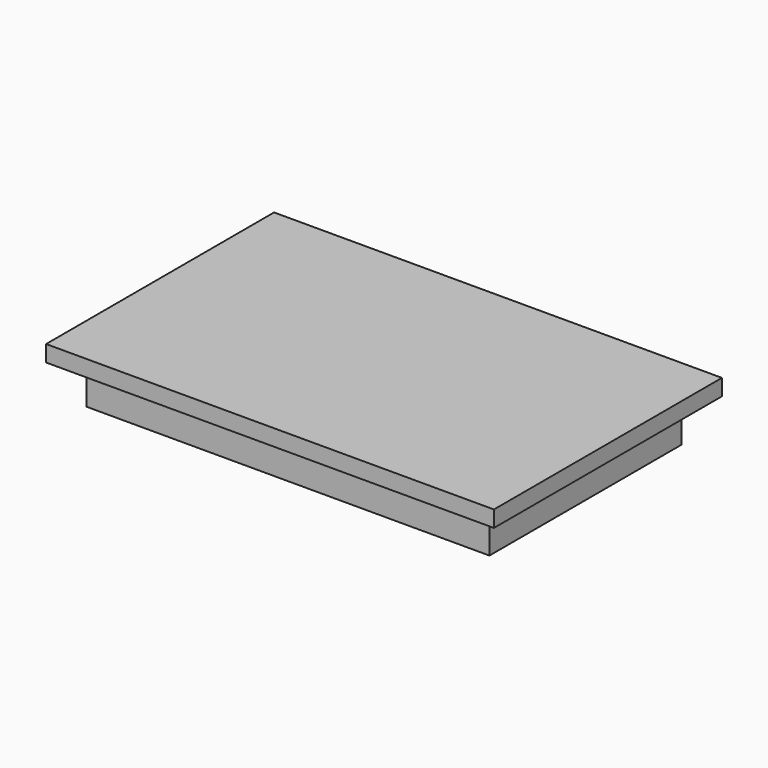
from build123d import *

# Parameters (mm, degrees)
F0_W     = 110
F0_H     = 70
F1_DEPTH = 4
F2_W     = 99
F2_H     = 59
F2_W_2   = 91
F2_H_2   = 51
F3_DEPTH = 10


with BuildPart() as f1:
    # F0 (on Top) → F1 (new body)
    with BuildSketch(Plane.XY):
        with Locations((-12.319225, -35)):
            Rectangle(F0_W, F0_H)
    extrude(amount=F1_DEPTH)

    # F2 (on face) → F3 (join)
    with BuildSketch(Plane(origin=(0, 0, 0), x_dir=(1, 0, 0), z_dir=(0, 0, -1))):
        with Locations((-12.319225, 35)):
            Rectangle(F2_W, F2_H)
        with Locations((-12.319225, 35)):
            Rectangle(F2_W_2, F2_H_2, mode=Mode.SUBTRACT)
    extrude(amount=F3_DEPTH)


solid = f1.part
